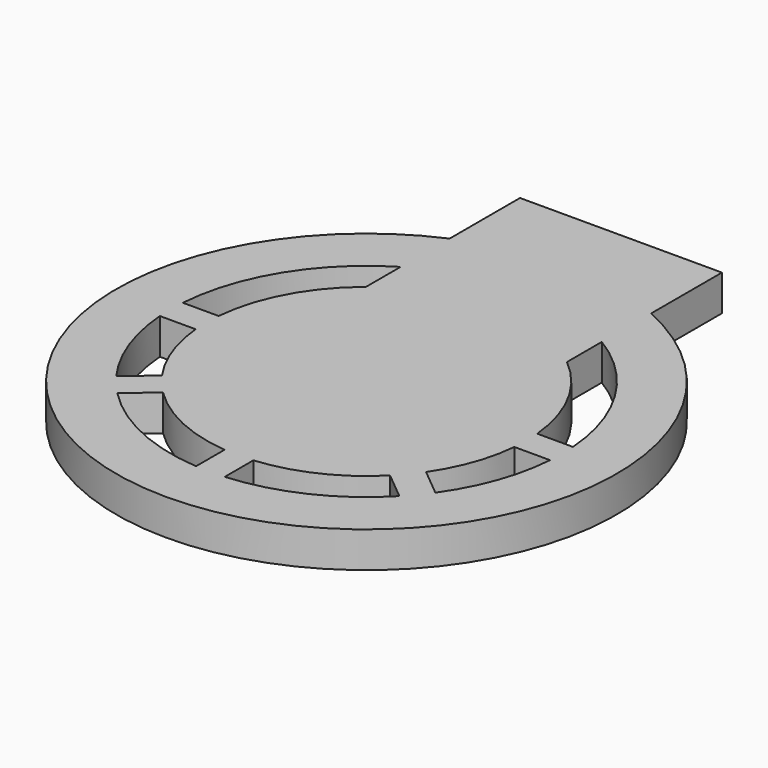
from build123d import *

# Parameters (mm, degrees)
F0_W     = 140.7
F0_H     = 280
F1_DEPTH = 25
F2_R     = 174.3309751569
F3_DEPTH = 25


with BuildPart() as f1:
    # F0 (on Top) → F1 (new body)
    with BuildSketch(Plane.XY):
        with Locations((0.5157602191, -46.0708594322)):
            Rectangle(F0_W, F0_H)
    extrude(amount=F1_DEPTH)

    # F2 (on Top) → F3 (join)
    with BuildSketch(Plane.XY):
        with Locations((0, -127.1062195301)):
            Circle(F2_R)
        with BuildLine():
            ThreePointArc((135.9251850135, -117.1062195301), (136.2006688085, -122.1028469617), (136.2925380237, -127.1062195301))
            ThreePointArc((136.2925380237, -127.1062195301), (136.2006688085, -132.1095920985), (135.9251850135, -137.1062195301))
            ThreePointArc((135.9251850135, -137.1062195301), (128.2461669599, -173.2427189751), (111.1444855362, -205.9894196163))
            ThreePointArc((111.1444855362, -205.9894196163), (105.0571290732, -213.9316510109), (98.4034458961, -221.4058364791))
            ThreePointArc((98.4034458961, -221.4058364791), (58.0603027008, -250.4133854664), (10, -263.0314045436))
            ThreePointArc((10, -263.0314045436), (0, -263.3987575538), (-10, -263.0314045436))
            ThreePointArc((-10, -263.0314045436), (-57.3758238008, -250.7333636536), (-97.3518624436, -222.4910757689))
            ThreePointArc((-97.3518624436, -222.4910757689), (-104.0880057129, -215.0911215739), (-110.2630464775, -207.2168711467))
            ThreePointArc((-110.2630464775, -207.2168711467), (-127.9884260341, -173.9529773929), (-135.9251850135, -137.1062195301))
            ThreePointArc((-135.9251850135, -137.1062195301), (-136.2925380237, -127.1062195301), (-135.9251850135, -117.1062195301))
            ThreePointArc((-135.9251850135, -117.1062195301), (0, 9.1863184936), (135.9251850135, -117.1062195301))
        make_face(mode=Mode.SUBTRACT)
        with BuildLine():
            ThreePointArc((111.4590298101, -127.1062195301), (111.3465976726, -122.1011707841), (111.0095280875, -117.1062195301))
            ThreePointArc((111.0095280875, -117.1062195301), (0, -15.64718972), (-111.0095280875, -117.1062195301))
            ThreePointArc((-111.0095280875, -117.1062195301), (-111.4590298101, -127.1062195301), (-111.0095280875, -137.1062195301))
            ThreePointArc((-111.0095280875, -137.1062195301), (-104.667988428, -165.4171517121), (-91.2347043683, -191.1323395519))
            ThreePointArc((-91.2347043683, -191.1323395519), (-85.1224014158, -199.0596218362), (-78.3235203344, -206.4065441741))
            ThreePointArc((-78.3235203344, -206.4065441741), (-46.9215244512, -228.2075838601), (-10, -238.1157476176))
            ThreePointArc((-10, -238.1157476176), (0, -238.5652493402), (10, -238.1157476176))
            ThreePointArc((10, -238.1157476176), (47.4812862344, -227.9459080646), (79.197938217, -205.5332678514))
            ThreePointArc((79.197938217, -205.5332678514), (85.9149433339, -198.1114153833), (91.9389778571, -190.1168509886))
            ThreePointArc((91.9389778571, -190.1168509886), (104.8787670513, -164.8363076298), (111.0095280875, -137.1062195301))
            ThreePointArc((111.0095280875, -137.1062195301), (111.3465976726, -132.1112682761), (111.4590298101, -127.1062195301))
        make_face()
        with BuildLine():
            ThreePointArc((-10, -263.0314045436), (0, -263.3987575538), (10, -263.0314045436))
            Line((10, -263.0314045436), (10, -238.1157476176))
            ThreePointArc((10, -238.1157476176), (0, -238.5652493402), (-10, -238.1157476176))
            Line((-10, -238.1157476176), (-10, -263.0314045436))
        make_face()
        with BuildLine():
            Line((-111.0095280875, -117.1062195301), (-135.9251850135, -117.1062195301))
            ThreePointArc((-135.9251850135, -117.1062195301), (-136.2925380237, -127.1062195301), (-135.9251850135, -137.1062195301))
            Line((-135.9251850135, -137.1062195301), (-111.0095280875, -137.1062195301))
            ThreePointArc((-111.0095280875, -137.1062195301), (-111.4590298101, -127.1062195301), (-111.0095280875, -117.1062195301))
        make_face()
        with BuildLine():
            Line((-91.2347043683, -191.1323395519), (-110.2630464775, -207.2168711467))
            ThreePointArc((-110.2630464775, -207.2168711467), (-104.0880057129, -215.0911215739), (-97.3518624436, -222.4910757689))
            Line((-97.3518624436, -222.4910757689), (-78.3235203344, -206.4065441741))
            ThreePointArc((-78.3235203344, -206.4065441741), (-85.1224014158, -199.0596218362), (-91.2347043683, -191.1323395519))
        make_face()
        with BuildLine():
            ThreePointArc((98.4034458961, -221.4058364791), (105.0571290732, -213.9316510109), (111.1444855362, -205.9894196163))
            Line((111.1444855362, -205.9894196163), (91.9389778571, -190.1168509886))
            ThreePointArc((91.9389778571, -190.1168509886), (85.9149433339, -198.1114153833), (79.197938217, -205.5332678514))
            Line((79.197938217, -205.5332678514), (98.4034458961, -221.4058364791))
        make_face()
        with BuildLine():
            ThreePointArc((135.9251850135, -137.1062195301), (136.2006688085, -132.1095920985), (136.2925380237, -127.1062195301))
            ThreePointArc((136.2925380237, -127.1062195301), (136.2006688085, -122.1028469617), (135.9251850135, -117.1062195301))
            Line((135.9251850135, -117.1062195301), (111.0095280875, -117.1062195301))
            ThreePointArc((111.0095280875, -117.1062195301), (111.3465976726, -122.1011707841), (111.4590298101, -127.1062195301))
            ThreePointArc((111.4590298101, -127.1062195301), (111.3465976726, -132.1112682761), (111.0095280875, -137.1062195301))
            Line((111.0095280875, -137.1062195301), (135.9251850135, -137.1062195301))
        make_face()
    extrude(amount=F3_DEPTH)


solid = f1.part
